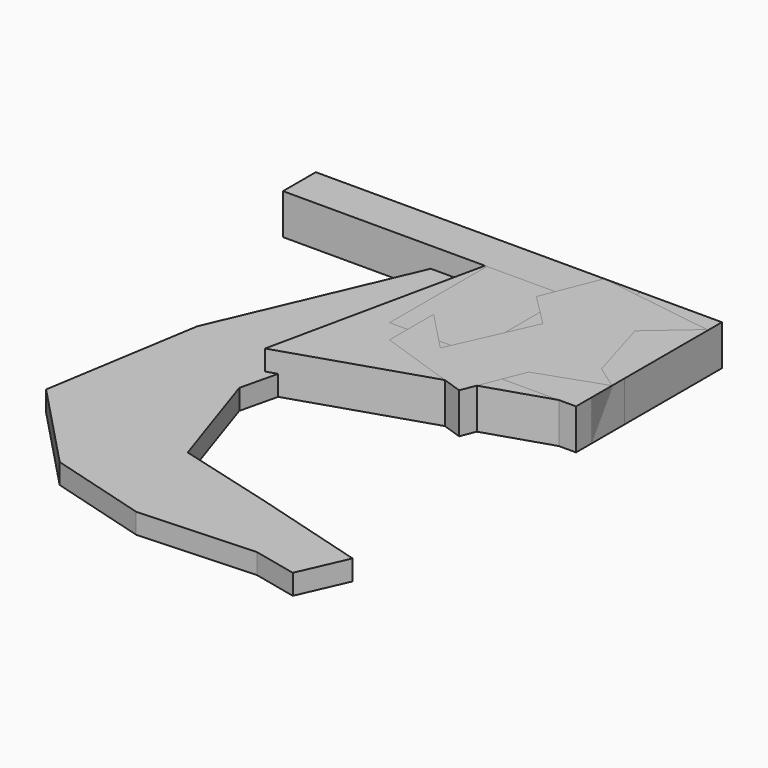
from build123d import *

# Parameters (mm, degrees)
PAD001_DEPTH = 10
SKETCH006_W  = 17.330512
SKETCH006_H  = 14.988543
PAD006_DEPTH = 10
PAD007_DEPTH = 5
PAD008_DEPTH = 5
PAD014_DEPTH = 10
PAD013_DEPTH = 10
SKETCH018_W  = 100.185661
SKETCH018_H  = 10.112617
PAD025_DEPTH = 10
SKETCH030_W  = 29.960587
SKETCH030_H  = 30.027189
PAD024_DEPTH = 10
SKETCH028_W  = 29.960587
SKETCH028_H  = 30.027189
PAD027_DEPTH = 10
SKETCH026_W  = 49.87516
SKETCH026_H  = 40.159164
PAD022_DEPTH = 10
SKETCH029_W  = 29.960587
SKETCH029_H  = 30.027189
PAD021_DEPTH = 10
SKETCH024_W  = 100.185661
SKETCH024_H  = 10.112617
PAD031_DEPTH = 10
SKETCH020_W  = 20.015697
SKETCH020_H  = 44.976456
PAD020_DEPTH = 10
PAD032_DEPTH = 10
PAD035_DEPTH = 5
PAD037_DEPTH = 5
PAD038_DEPTH = 5


with BuildPart() as body001:
    # Sketch001 → Pad001 (new body)
    with BuildSketch(Plane.XY):
        Polygon((-14.146512, 4.385867), (-14.444172, -3.274984), (-10.871528, -10.058305), (-4.385867, -14.146512), (3.274984, -14.444172), (10.058305, -10.871528), (14.146512, -4.385867), (14.444172, 3.274984), (10.871528, 10.058305), (4.385867, 14.146512), (-3.274984, 14.444172), (-10.058305, 10.871528), align=None)
    extrude(amount=PAD001_DEPTH)


with BuildPart() as body001_1:
    # Body001 placement: moved
    add(body001.part.moved(Location((-14.444172, -14.444172, 0))))


with BuildPart() as body006:
    # Sketch006 → Pad006 (new body)
    with BuildSketch(Plane.XY):
        with Locations((-1.850273, 0.820157)):
            Rectangle(SKETCH006_W, SKETCH006_H)
    extrude(amount=PAD006_DEPTH)

    # Sketch007 → Pad007 (join)
    with BuildSketch(Plane.XY):
        Polygon((10.019646, 10.457861), (4.573891, 15.162398), (-2.314561, 17.24522), (-9.454634, 16.346186), (-15.611746, 12.620748), (-19.721276, 6.713068), (-21.072648, -0.355362), (-19.432198, -7.362347), (-15.083575, -13.096315), (-8.778695, -16.565812), (-1.60773, -17.170929), (5.189397, -14.807036), (10.437399, -9.882873), (13.22885, -3.24987), (13.081082, 3.945064), align=None)
    extrude(amount=PAD007_DEPTH)


with BuildPart() as body006_1:
    # Body006 placement: moved
    add(body006.part.moved(Location((-13.22885, -17.24522, 0))))


with BuildPart() as body007:
    # Sketch008 → Pad008 (new body)
    with BuildSketch(Plane.XY):
        Polygon((7.007695, -11.784118), (11.767051, -2.863674), (10.374145, 7.150596), (3.361021, 14.433582), (-6.593548, 16.203429), (-15.687253, 11.784118), (-20.446609, 2.863674), (-19.053703, -7.150596), (-12.040579, -14.433582), (-2.086011, -16.203429), align=None)
    extrude(amount=PAD008_DEPTH)


with BuildPart() as body007_1:
    # Body007 placement: moved
    add(body007.part.moved(Location((-11.767051, -16.203429, 0))))


with BuildPart() as body008:
    # Sketch010 → Pad014 (new body)
    with BuildSketch(Plane.XY):
        Polygon((0, 0), (-11.495134, 26.22936), (-28.462859, 3.159603), align=None)
    extrude(amount=PAD014_DEPTH)


with BuildPart() as body008_1:
    # Body008 placement: moved
    add(body008.part.moved(Location((0, -26.22936, 0))))


with BuildPart() as body011:
    # Sketch014 → Pad013 (new body)
    with BuildSketch(Plane.XY):
        Polygon((0, 0), (-13.660303, -63.548782), (48.204708, -43.604561), align=None)
    extrude(amount=PAD013_DEPTH)


with BuildPart() as body011_1:
    # Body011 placement: moved
    add(body011.part.moved(Location((-48.204708, 0, 0))))


with BuildPart() as body017:
    # Sketch018 → Pad025 (new body)
    with BuildSketch(Plane.XY):
        with Locations((50.09283, 5.056309)):
            Rectangle(SKETCH018_W, SKETCH018_H)
    extrude(amount=PAD025_DEPTH)


with BuildPart() as body017_1:
    # Body017 placement: moved
    add(body017.part.moved(Location((-100.185661, -10.112617, 0))))


with BuildPart() as body018:
    # Sketch030 → Pad024 (new body)
    with BuildSketch(Plane.XY):
        with Locations((14.980294, 15.013594)):
            Rectangle(SKETCH030_W, SKETCH030_H)
    extrude(amount=PAD024_DEPTH)


with BuildPart() as body018_1:
    # Body018 placement: moved
    add(body018.part.moved(Location((-29.960587, -30.027189, 0))))


with BuildPart() as body022:
    # Sketch028 → Pad027 (new body)
    with BuildSketch(Plane.XY):
        with Locations((14.980294, 15.013594)):
            Rectangle(SKETCH028_W, SKETCH028_H)
    extrude(amount=PAD027_DEPTH)


with BuildPart() as body022_1:
    # Body022 placement: moved
    add(body022.part.moved(Location((-29.960587, -30.027189, 0))))


with BuildPart() as body024:
    # Sketch026 → Pad022 (new body)
    with BuildSketch(Plane.XY):
        with Locations((24.93758, 20.079582)):
            Rectangle(SKETCH026_W, SKETCH026_H)
    extrude(amount=PAD022_DEPTH)


with BuildPart() as body024_1:
    # Body024 placement: moved
    add(body024.part.moved(Location((-49.87516, -40.159164, 0))))


with BuildPart() as body026:
    # Sketch029 → Pad021 (new body)
    with BuildSketch(Plane.XY):
        with Locations((14.980294, 15.013594)):
            Rectangle(SKETCH029_W, SKETCH029_H)
    extrude(amount=PAD021_DEPTH)


with BuildPart() as body026_1:
    # Body026 placement: moved
    add(body026.part.moved(Location((-29.960587, -30.027189, 0))))


with BuildPart() as body027:
    # Sketch024 → Pad031 (new body)
    with BuildSketch(Plane.XY):
        with Locations((50.09283, 5.056309)):
            Rectangle(SKETCH024_W, SKETCH024_H)
    extrude(amount=PAD031_DEPTH)


with BuildPart() as body027_1:
    # Body027 placement: moved
    add(body027.part.moved(Location((-100.185661, -10.112617, 0))))


with BuildPart() as body030:
    # Sketch020 → Pad020 (new body)
    with BuildSketch(Plane.XY):
        with Locations((10.007848, 22.488228)):
            Rectangle(SKETCH020_W, SKETCH020_H)
    extrude(amount=PAD020_DEPTH)


with BuildPart() as body030_1:
    # Body030 placement: moved
    add(body030.part.moved(Location((-20.015697, -44.976456, 0))))


with BuildPart() as body031:
    # Sketch034 → Pad032 (new body)
    with BuildSketch(Plane.XY):
        Polygon((15.854637, -11.861474), (10.963326, 4.559358), (21.44471, 13.643224), (-7.204406, 17.835772), (-12.794459, 3.860602), (-4.75875, -4.175127), (-13.842596, -24.439129), (-23.625217, -14.307127), (-23.625217, -27.932922), (0, -35.968647), (5.722634, -21.644093), (21.794092, -16.054022), align=None)
    extrude(amount=PAD032_DEPTH)


with BuildPart() as body031_1:
    # Body031 placement: moved
    add(body031.part.moved(Location((-21.794092, -17.835772, 0))))


with BuildPart() as body032:
    # Sketch036 → Pad035 (new body)
    with BuildSketch(Plane.XY):
        Polygon((16.407789, 0), (14.20999, 9.292012), (7.459578, 7.408173), (-1.802612, 16.670362), (-17.344254, 4.268449), (-13.576584, -9.860312), (5.104784, -3.266889), (11.855196, -6.092639), align=None)
    extrude(amount=PAD035_DEPTH)


with BuildPart() as body032_1:
    # Body032 placement: moved
    add(body032.part.moved(Location((-16.407789, -16.670362, 0))))


with BuildPart() as body034:
    # Sketch035 → Pad037 (new body)
    with BuildSketch(Plane.XY):
        Polygon((13.758363, 0), (12.01147, 9.80005), (-4.409369, 11.896324), (-28.516535, 11.896324), (-29.564672, 0), (-24.673361, -3.476364), (-26.769636, -16.752783), (-8.601904, -11.162712), (4.325122, -16.054022), (16.5534, -8.717056), (24.239746, -11.512094), (21.44471, -2.777609), align=None)
    extrude(amount=PAD037_DEPTH)


with BuildPart() as body034_1:
    # Body034 placement: moved
    add(body034.part.moved(Location((-24.239746, -11.896324, 0))))


with BuildPart() as body037:
    # Sketch039 → Pad038 (new body)
    with BuildSketch(Plane.XY):
        Polygon((22.492847, -7.66892), (-6.156262, -9.066438), (-30.61281, -2.078853), (-51.575577, 19.932053), (-45.286743, 58.713158), (-20.830187, 115.661995), (-8.252522, 114.613869), (-13.493215, 83.519096), (-22.926462, 43.689846), (-13.842596, 16.438253), (10.613945, 9.80005), (38.564285, 1.764321), (33.323612, -10.114574), align=None)
    extrude(amount=PAD038_DEPTH)


with BuildPart() as body037_1:
    # Body037 placement: moved
    add(body037.part.moved(Location((-38.564285, -115.661995, 0))))


solid = Compound([body001_1.part, body006_1.part, body007_1.part, body008_1.part, body011_1.part, body017_1.part, body018_1.part, body022_1.part, body024_1.part, body026_1.part, body027_1.part, body030_1.part, body031_1.part, body032_1.part, body034_1.part, body037_1.part])
